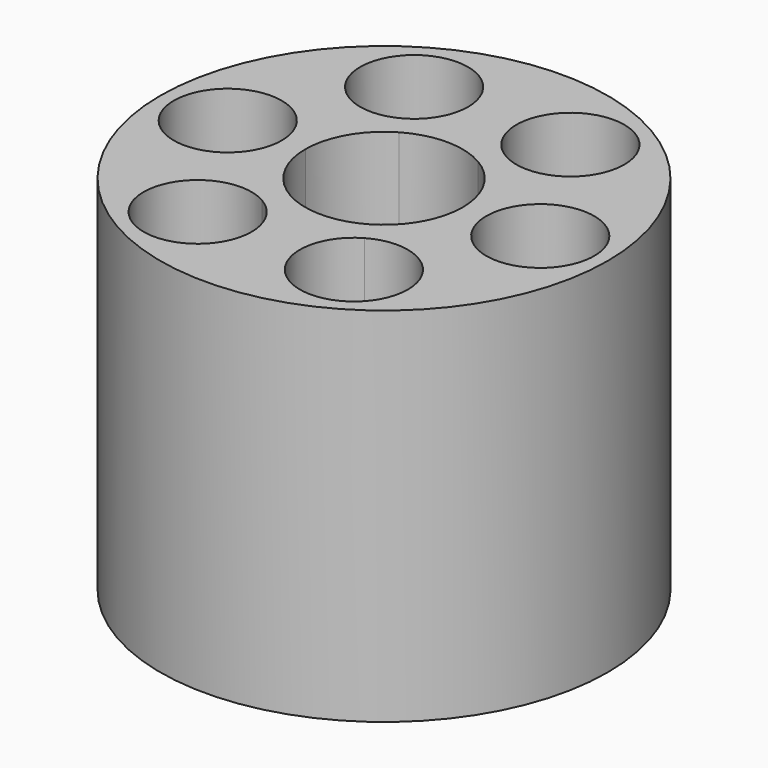
from build123d import *

# Parameters (mm, degrees)
F0_R     = 31.5
F0_R_2   = 7.6
F1_DEPTH = 51


with BuildPart() as f1:
    # F0 (on Top) → F1 (new body)
    with BuildSketch(Plane.XY):
        Circle(F0_R)
        with BuildLine():
            ThreePointArc((-3.4, -19.052559), (-17.581793, -22.852559), (-7.2, -12.470766))
            ThreePointArc((-7.2, -12.470766), (-4.418207, -15.252559), (-3.4, -19.052559))
        make_face(mode=Mode.SUBTRACT)
        with BuildLine():
            ThreePointArc((18.6, -19.052559), (7.2, -25.634352), (7.2, -12.470766))
            ThreePointArc((7.2, -12.470766), (14.8, -12.470766), (18.6, -19.052559))
        make_face(mode=Mode.SUBTRACT)
        with Locations((-22, 0)):
            Circle(F0_R_2, mode=Mode.SUBTRACT)
        with BuildLine():
            ThreePointArc((-3.4, 19.052559), (-4.418207, 15.252559), (-7.2, 12.470766))
            ThreePointArc((-7.2, 12.470766), (-17.581793, 22.852559), (-3.4, 19.052559))
        make_face(mode=Mode.SUBTRACT)
        with BuildLine():
            ThreePointArc((5.5375, 9.591231), (9.591231, 5.5375), (11.075, 0))
            ThreePointArc((11.075, 0), (9.591231, -5.5375), (5.5375, -9.591231))
            ThreePointArc((5.5375, -9.591231), (0, -11.075), (-5.5375, -9.591231))
            ThreePointArc((-5.5375, -9.591231), (-9.591231, -5.5375), (-11.075, 0))
            ThreePointArc((-11.075, 0), (-9.591231, 5.5375), (-5.5375, 9.591231))
            ThreePointArc((-5.5375, 9.591231), (0, 11.075), (5.5375, 9.591231))
        make_face(mode=Mode.SUBTRACT)
        with BuildLine():
            ThreePointArc((29.6, 0), (22, -7.6), (14.4, 0))
            ThreePointArc((14.4, 0), (22, 7.6), (29.6, 0))
        make_face(mode=Mode.SUBTRACT)
        with BuildLine():
            ThreePointArc((18.6, 19.052559), (14.8, 12.470766), (7.2, 12.470766))
            ThreePointArc((7.2, 12.470766), (7.2, 25.634352), (18.6, 19.052559))
        make_face(mode=Mode.SUBTRACT)
    extrude(amount=F1_DEPTH)


solid = f1.part
